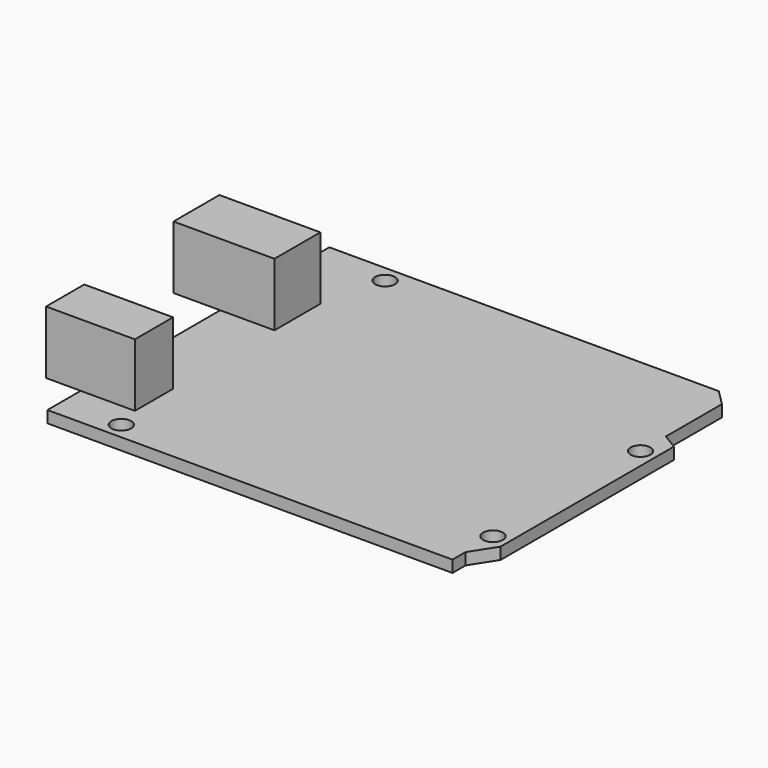
from build123d import *

# Parameters (mm, degrees)
F0_R     = 1.5
F1_DEPTH = 1.778
F2_W     = 7.063547
F2_H     = 8.672543
F2_W_2   = 5.23132
F2_H_2   = 7.2136
F2_W_3   = 8.205013
F2_W_4   = 8.20528
F3_DEPTH = 9.525


with BuildPart() as f1:
    # F0 (on Top) → F1 (new body)
    with BuildSketch(Plane.XY):
        Polygon((0, 53.3), (0, 0), (61.270186, 0), (61.270186, 2.46), (63.626732, 6.159072), (63.626732, 38.925072), (61.270186, 40.338999), (61.270186, 50.943454), (58.91364, 53.3), align=None)
        with Locations((9.170186, 2.5)):
            Circle(F0_R, mode=Mode.SUBTRACT)
        with Locations((61.270186, 7.66)):
            Circle(F0_R, mode=Mode.SUBTRACT)
        with Locations((10.470186, 50.76)):
            Circle(F0_R, mode=Mode.SUBTRACT)
        with Locations((61.270186, 35.56)):
            Circle(F0_R, mode=Mode.SUBTRACT)
    extrude(amount=F1_DEPTH)


with BuildPart() as f3:
    # F2 (on face) → F3 (new body)
    with BuildSketch(Plane.XY.offset(1.778)):
        with Locations((-3.531773, 37.0026)):
            Rectangle(F2_W, F2_H)
        with Locations((-2.61566, 9.889059)):
            Rectangle(F2_W_2, F2_H_2)
        with Locations((4.102506, 37.0026)):
            Rectangle(F2_W_3, F2_H)
        with Locations((4.10264, 9.889059)):
            Rectangle(F2_W_4, F2_H_2)
    extrude(amount=F3_DEPTH)


solid = Compound([f1.part, f3.part])
